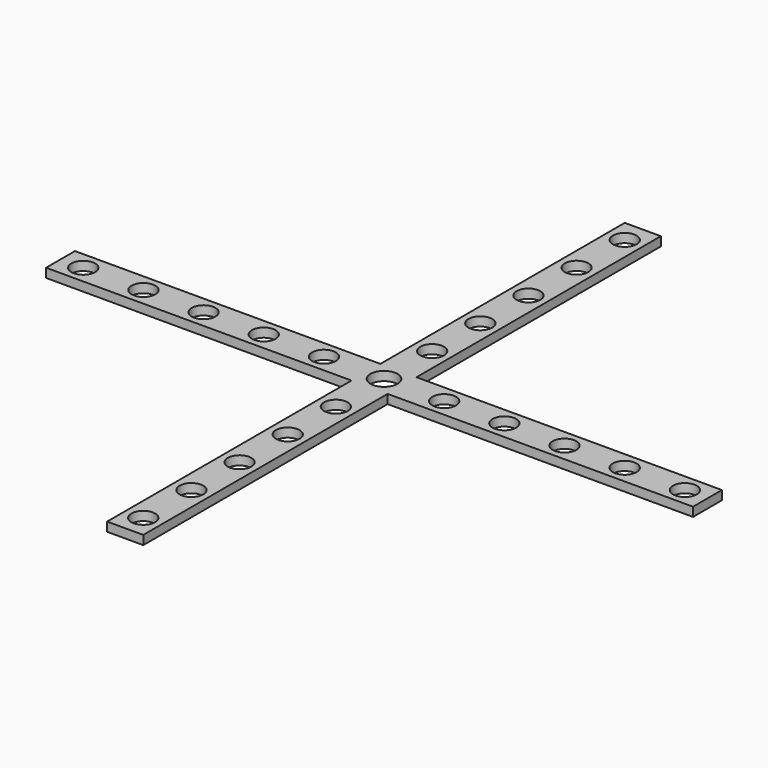
from build123d import *

# Parameters (mm, degrees)
F0_W     = 257.81
F0_H     = 30.48
F0_R     = 10
F0_W_2   = 30.48
F0_H_2   = 257.81
F0_R_2   = 11.43
F1_DEPTH = 7.62


with BuildPart() as f1:
    # F0 (on Top) → F1 (new body)
    with BuildSketch(Plane.XY):
        with Locations((-144.145, 0)):
            Rectangle(F0_W, F0_H)
        with Locations((-253.873001, 0)):
            Circle(F0_R, mode=Mode.SUBTRACT)
        with Locations((-203.073001, 0)):
            Circle(F0_R, mode=Mode.SUBTRACT)
        with Locations((-152.273001, 0)):
            Circle(F0_R, mode=Mode.SUBTRACT)
        with Locations((-101.473001, 0)):
            Circle(F0_R, mode=Mode.SUBTRACT)
        with Locations((-50.673001, 0)):
            Circle(F0_R, mode=Mode.SUBTRACT)
        with Locations((0, -144.145)):
            Rectangle(F0_W_2, F0_H_2)
        with Locations((0, -254)):
            Circle(F0_R, mode=Mode.SUBTRACT)
        with Locations((0, -203.2)):
            Circle(F0_R, mode=Mode.SUBTRACT)
        with Locations((0, -152.4)):
            Circle(F0_R, mode=Mode.SUBTRACT)
        with Locations((0, -101.6)):
            Circle(F0_R, mode=Mode.SUBTRACT)
        with Locations((0, -50.8)):
            Circle(F0_R, mode=Mode.SUBTRACT)
        with Locations((144.145, 0)):
            Rectangle(F0_W, F0_H)
        with Locations((50.8, 0)):
            Circle(F0_R, mode=Mode.SUBTRACT)
        with Locations((101.6, 0)):
            Circle(F0_R, mode=Mode.SUBTRACT)
        with Locations((152.4, 0)):
            Circle(F0_R, mode=Mode.SUBTRACT)
        with Locations((203.2, 0)):
            Circle(F0_R, mode=Mode.SUBTRACT)
        with Locations((254, 0)):
            Circle(F0_R, mode=Mode.SUBTRACT)
        with Locations((0, 144.145)):
            Rectangle(F0_W_2, F0_H_2)
        with Locations((0, 50.8)):
            Circle(F0_R, mode=Mode.SUBTRACT)
        with Locations((0, 101.6)):
            Circle(F0_R, mode=Mode.SUBTRACT)
        with Locations((0, 152.4)):
            Circle(F0_R, mode=Mode.SUBTRACT)
        with Locations((0, 203.2)):
            Circle(F0_R, mode=Mode.SUBTRACT)
        with Locations((0, 254)):
            Circle(F0_R, mode=Mode.SUBTRACT)
        Rectangle(F0_W_2, F0_H)
        Circle(F0_R_2, mode=Mode.SUBTRACT)
    extrude(amount=F1_DEPTH)


solid = f1.part
